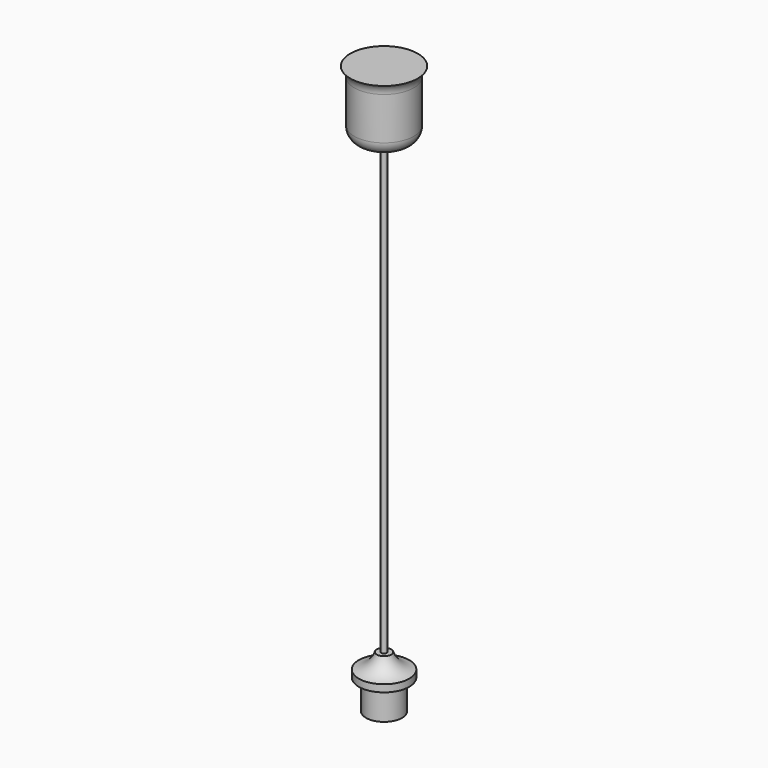
from build123d import *


with BuildPart() as f1:
    # F0 (on Front) → F1 (revolve)
    with BuildSketch(Plane.XZ):
        with BuildLine():
            Line((0, 631), (0, 32))
            Line((0, 32), (12.5, 32))
            Line((12.5, 32), (12.5, 0))
            Line((12.5, 0), (20, 0))
            Line((20, 0), (20, 33))
            Line((20, 33), (28, 33))
            Line((28, 33), (28, 41))
            ThreePointArc((28, 41), (15.589403, 46.664003), (8, 58))
            Line((8, 58), (3, 58))
            Line((3, 58), (3, 558))
            Line((3, 558), (18, 558))
            ThreePointArc((18, 558), (28.606602, 562.393398), (33, 573))
            Line((33, 573), (33, 620.287857))
            ThreePointArc((33, 620.287857), (34.170683, 626.097332), (37.5, 631))
            Line((37.5, 631), (0, 631))
        make_face()
    revolve(axis=Axis((0, 0, 331.5), (0, 0, -1)))


solid = f1.part
